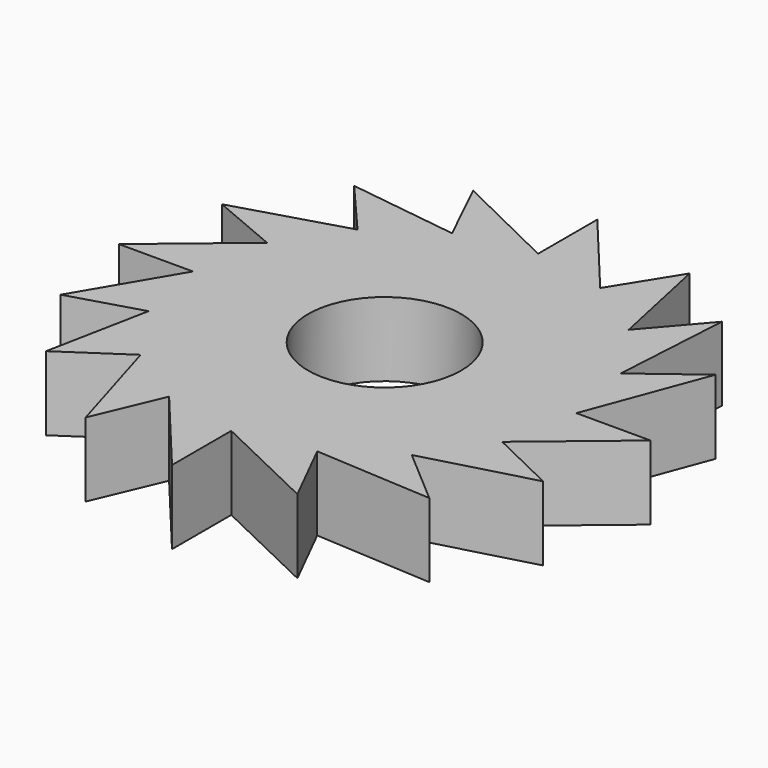
from build123d import *

# Parameters (mm, degrees)
F0_R     = 26.25262
F1_DEPTH = 25.4


with BuildPart() as f1:
    # F0 (on Top) → F1 (new body)
    with BuildSketch(Plane.XY):
        with BuildLine():
            ThreePointArc((60.64454, -25.4), (64.460194, -12.953906), (65.748918, 0))
            ThreePointArc((65.748918, 0), (64.460194, 12.953906), (60.64454, 25.4))
            ThreePointArc((60.64454, 25.4), (54.596209, 36.635696), (46.491506, 46.491506))
            ThreePointArc((46.491506, 46.491506), (36.635696, 54.596209), (25.4, 60.64454))
            ThreePointArc((25.4, 60.64454), (12.953906, 64.460194), (0, 65.748918))
            ThreePointArc((0, 65.748918), (-12.953906, 64.460194), (-25.4, 60.64454))
            ThreePointArc((-25.4, 60.64454), (-36.635696, 54.596209), (-46.491506, 46.491506))
            ThreePointArc((-46.491506, 46.491506), (-54.596209, 36.635696), (-60.64454, 25.4))
            ThreePointArc((-60.64454, 25.4), (-64.460194, 12.953906), (-65.748918, 0))
            ThreePointArc((-65.748918, 0), (-64.460194, -12.953906), (-60.64454, -25.4))
            ThreePointArc((-60.64454, -25.4), (-54.596209, -36.635696), (-46.491506, -46.491506))
            ThreePointArc((-46.491506, -46.491506), (-36.635696, -54.596209), (-25.4, -60.64454))
            ThreePointArc((-25.4, -60.64454), (-12.953906, -64.460194), (0, -65.748918))
            ThreePointArc((0, -65.748918), (12.953906, -64.460194), (25.4, -60.64454))
            ThreePointArc((25.4, -60.64454), (36.635696, -54.596209), (46.491506, -46.491506))
            ThreePointArc((46.491506, -46.491506), (54.596209, -36.635696), (60.64454, -25.4))
        make_face()
        Circle(F0_R, mode=Mode.SUBTRACT)
        with BuildLine():
            ThreePointArc((-46.491506, 46.491506), (-36.635696, 54.596209), (-25.4, 60.64454))
            Line((-25.4, 60.64454), (-63.053875, 65.748918))
            Line((-63.053875, 65.748918), (-46.491506, 46.491506))
        make_face()
        with BuildLine():
            ThreePointArc((-60.64454, 25.4), (-54.596209, 36.635696), (-46.491506, 46.491506))
            Line((-46.491506, 46.491506), (-84.039145, 35.292041))
            Line((-84.039145, 35.292041), (-60.64454, 25.4))
        make_face()
        with BuildLine():
            ThreePointArc((-65.748918, 0), (-64.460194, 12.953906), (-60.64454, 25.4))
            Line((-60.64454, 25.4), (-91.148918, 0))
            Line((-91.148918, 0), (-65.748918, 0))
        make_face()
        with BuildLine():
            Line((-84.992537, -32.634297), (-60.64454, -25.4))
            ThreePointArc((-60.64454, -25.4), (-64.460194, -12.953906), (-65.748918, 0))
            Line((-65.748918, 0), (-84.992537, -32.634297))
        make_face()
        with BuildLine():
            Line((-67.583012, -60.64454), (-46.491506, -46.491506))
            ThreePointArc((-46.491506, -46.491506), (-54.596209, -36.635696), (-60.64454, -25.4))
            Line((-60.64454, -25.4), (-67.583012, -60.64454))
        make_face()
        with BuildLine():
            Line((-35.292041, -84.039145), (-25.4, -60.64454))
            ThreePointArc((-25.4, -60.64454), (-36.635696, -54.596209), (-46.491506, -46.491506))
            Line((-46.491506, -46.491506), (-35.292041, -84.039145))
        make_face()
        with BuildLine():
            Line((0, -91.148918), (0, -65.748918))
            ThreePointArc((0, -65.748918), (-12.953906, -64.460194), (-25.4, -60.64454))
            Line((-25.4, -60.64454), (0, -91.148918))
        make_face()
        with BuildLine():
            Line((36.764588, -83.360309), (25.4, -60.64454))
            ThreePointArc((25.4, -60.64454), (12.953906, -64.460194), (0, -65.748918))
            Line((0, -65.748918), (36.764588, -83.360309))
        make_face()
        with BuildLine():
            Line((65.748918, -63.053875), (46.491506, -46.491506))
            ThreePointArc((46.491506, -46.491506), (36.635696, -54.596209), (25.4, -60.64454))
            Line((25.4, -60.64454), (65.748918, -63.053875))
        make_face()
        with BuildLine():
            Line((83.514922, -36.450143), (60.64454, -25.4))
            ThreePointArc((60.64454, -25.4), (54.596209, -36.635696), (46.491506, -46.491506))
            Line((46.491506, -46.491506), (83.514922, -36.450143))
        make_face()
        with BuildLine():
            Line((91.148918, 0), (65.748918, 0))
            ThreePointArc((65.748918, 0), (64.460194, -12.953906), (60.64454, -25.4))
            Line((60.64454, -25.4), (91.148918, 0))
        make_face()
        with BuildLine():
            ThreePointArc((60.64454, 25.4), (64.460194, 12.953906), (65.748918, 0))
            Line((65.748918, 0), (80.933896, 40.680773))
            Line((80.933896, 40.680773), (60.64454, 25.4))
        make_face()
        with BuildLine():
            ThreePointArc((46.491506, 46.491506), (54.596209, 36.635696), (60.64454, 25.4))
            Line((60.64454, 25.4), (63.053875, 65.748918))
            Line((63.053875, 65.748918), (46.491506, 46.491506))
        make_face()
        with BuildLine():
            ThreePointArc((25.4, 60.64454), (36.635696, 54.596209), (46.491506, 46.491506))
            Line((46.491506, 46.491506), (38.832778, 82.201916))
            Line((38.832778, 82.201916), (25.4, 60.64454))
        make_face()
        with BuildLine():
            ThreePointArc((0, 65.748918), (12.953906, 64.460194), (25.4, 60.64454))
            Line((25.4, 60.64454), (0, 91.148918))
            Line((0, 91.148918), (0, 65.748918))
        make_face()
        with BuildLine():
            ThreePointArc((-25.4, 60.64454), (-12.953906, 64.460194), (0, 65.748918))
            Line((0, 65.748918), (-36.469118, 83.505744))
            Line((-36.469118, 83.505744), (-25.4, 60.64454))
        make_face()
    extrude(amount=F1_DEPTH)


solid = f1.part
